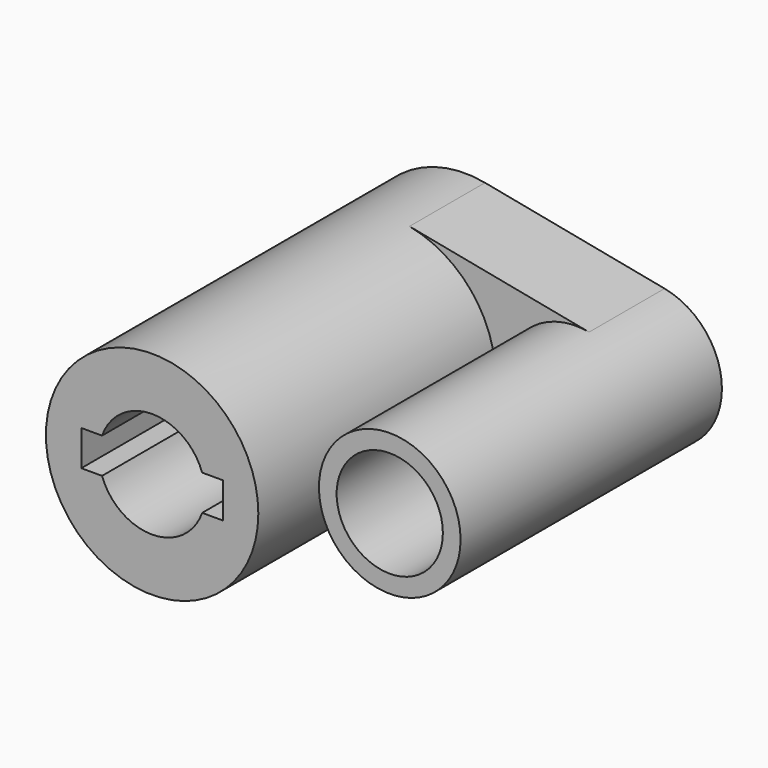
from build123d import *

# Parameters (mm, degrees)
F0_R     = 14.2875
F1_DEPTH = 25.4
F2_DEPTH = 105.156
F3_DEPTH = 87.884


with BuildPart() as f1:
    # F0 (on Front) → F1 (new body)
    with BuildSketch(Plane.XZ):
        with BuildLine():
            ThreePointArc((5.4312411777, -28.0540949644), (22.0423268015, -18.1842364199), (28.575, 0))
            ThreePointArc((28.575, 0), (22.0423268015, 18.1842364199), (5.4312411777, 28.0540949644))
            ThreePointArc((5.4312411777, 28.0540949644), (-28.575, 0), (5.4312411777, -28.0540949644))
        make_face()
        with BuildLine():
            ThreePointArc((-13.4703841816, 4.7625), (0, 14.2875), (13.4703841816, 4.7625))
            Line((13.4703841816, 4.7625), (19.05, 4.7625))
            Line((19.05, 4.7625), (19.05, -4.7625))
            Line((19.05, -4.7625), (13.4703841816, -4.7625))
            ThreePointArc((13.4703841816, -4.7625), (0, -14.2875), (-13.4703841816, -4.7625))
            Line((-13.4703841816, -4.7625), (-19.05, -4.7625))
            Line((-19.05, -4.7625), (-19.05, 4.7625))
            Line((-19.05, 4.7625), (-13.4703841816, 4.7625))
        make_face(mode=Mode.SUBTRACT)
        with BuildLine():
            ThreePointArc((69.1631999291, 0), (64.8080844634, 12.1228242799), (53.7340273808, 18.7027299762))
            ThreePointArc((53.7340273808, 18.7027299762), (31.0631999291, 0), (53.7340273808, -18.7027299762))
            ThreePointArc((53.7340273808, -18.7027299762), (64.8080844634, -12.1228242799), (69.1631999291, 0))
        make_face()
        with Locations((50.1131999291, 0)):
            Circle(F0_R, mode=Mode.SUBTRACT)
        with BuildLine():
            ThreePointArc((5.4312411777, 28.0540949644), (22.0423268015, 18.1842364199), (28.575, 0))
            ThreePointArc((28.575, 0), (22.0423268015, -18.1842364199), (5.4312411777, -28.0540949644))
            Line((5.4312411777, -28.0540949644), (53.7340273808, -18.7027299762))
            ThreePointArc((53.7340273808, -18.7027299762), (31.0631999291, 0), (53.7340273808, 18.7027299762))
            Line((53.7340273808, 18.7027299762), (5.4312411777, 28.0540949644))
        make_face()
        with BuildLine():
            ThreePointArc((-13.4703841816, -4.7625), (-14.2875, 0), (-13.4703841816, 4.7625))
            Line((-13.4703841816, 4.7625), (-19.05, 4.7625))
            Line((-19.05, 4.7625), (-19.05, -4.7625))
            Line((-19.05, -4.7625), (-13.4703841816, -4.7625))
        make_face()
    extrude(amount=F1_DEPTH)

    # F0 (on Front) → F2 (join)
    with BuildSketch(Plane.XZ):
        with BuildLine():
            ThreePointArc((5.4312411777, -28.0540949644), (22.0423268015, -18.1842364199), (28.575, 0))
            ThreePointArc((28.575, 0), (22.0423268015, 18.1842364199), (5.4312411777, 28.0540949644))
            ThreePointArc((5.4312411777, 28.0540949644), (-28.575, 0), (5.4312411777, -28.0540949644))
        make_face()
        with BuildLine():
            ThreePointArc((-13.4703841816, 4.7625), (0, 14.2875), (13.4703841816, 4.7625))
            Line((13.4703841816, 4.7625), (19.05, 4.7625))
            Line((19.05, 4.7625), (19.05, -4.7625))
            Line((19.05, -4.7625), (13.4703841816, -4.7625))
            ThreePointArc((13.4703841816, -4.7625), (0, -14.2875), (-13.4703841816, -4.7625))
            Line((-13.4703841816, -4.7625), (-19.05, -4.7625))
            Line((-19.05, -4.7625), (-19.05, 4.7625))
            Line((-19.05, 4.7625), (-13.4703841816, 4.7625))
        make_face(mode=Mode.SUBTRACT)
    extrude(amount=F2_DEPTH)

    # F0 (on Front) → F3 (join)
    with BuildSketch(Plane.XZ):
        with BuildLine():
            ThreePointArc((69.1631999291, 0), (64.8080844634, 12.1228242799), (53.7340273808, 18.7027299762))
            ThreePointArc((53.7340273808, 18.7027299762), (31.0631999291, 0), (53.7340273808, -18.7027299762))
            ThreePointArc((53.7340273808, -18.7027299762), (64.8080844634, -12.1228242799), (69.1631999291, 0))
        make_face()
        with Locations((50.1131999291, 0)):
            Circle(F0_R, mode=Mode.SUBTRACT)
    extrude(amount=F3_DEPTH)


solid = f1.part
